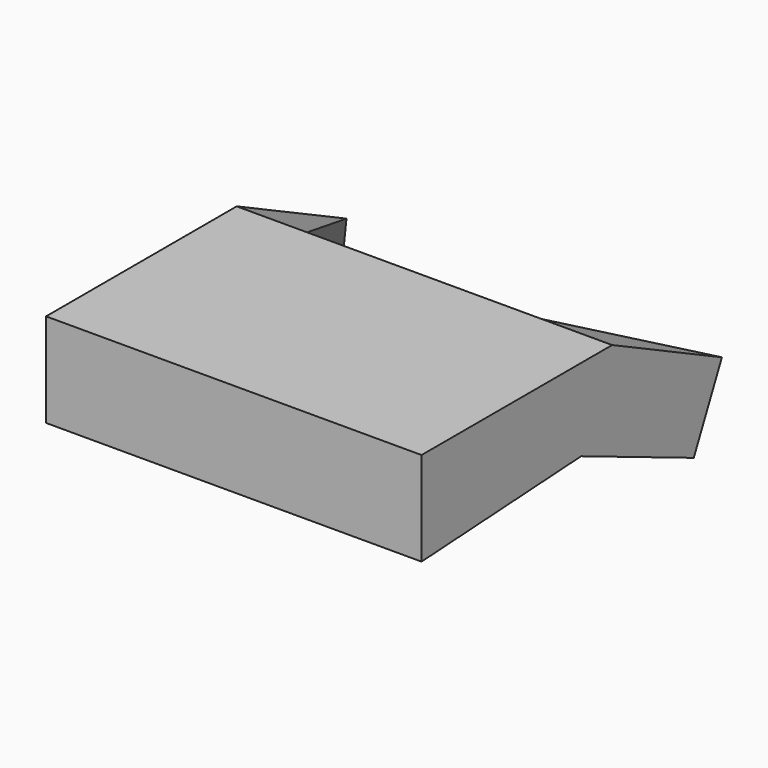
from build123d import *

# Parameters (mm, degrees)
F1_DEPTH = 16
F3_DEPTH = 25


with BuildPart() as f1:
    # F0 (on Right) → F1 (new body, symmetric)
    with BuildSketch(Plane.YZ):
        Polygon((-17, -1), (0, 0), (12, -5), (15, 1.324555), (3.304303, 7), (-17, 7), align=None)
    extrude(amount=F1_DEPTH, both=True)

    # F2 (on face) → F3 (cut)
    with BuildSketch(Plane.XY.offset(7)):
        Polygon((10, 3.304303), (16, 15), (-16, 15), (-10, 3.304303), align=None)
    extrude(amount=-F3_DEPTH, mode=Mode.SUBTRACT)


solid = f1.part
